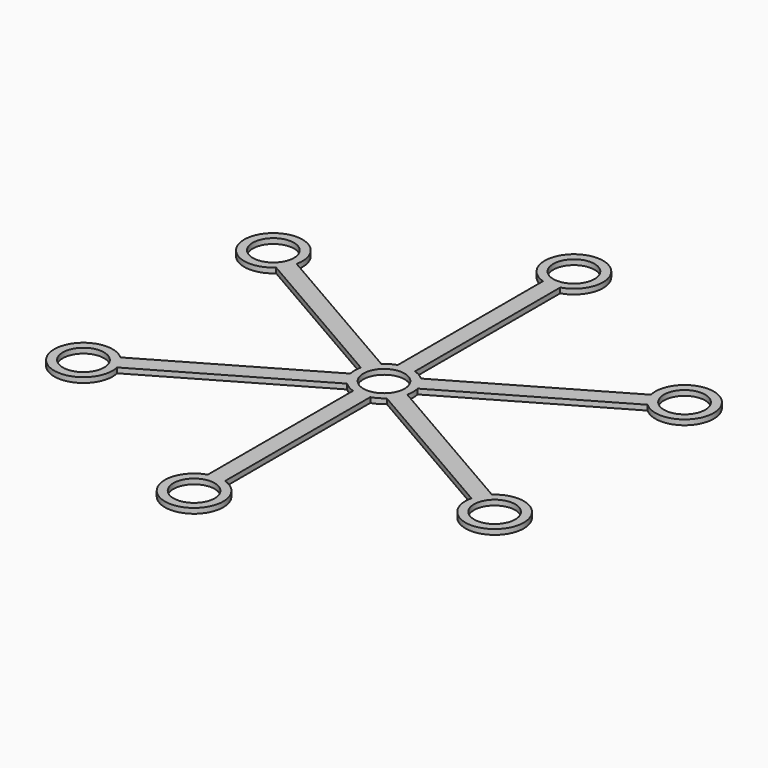
from build123d import *

# Parameters (mm, degrees)
F0_R     = 12
F1_DEPTH = 3


with BuildPart() as f1:
    # F0 (on Top) → F1 (new body)
    with BuildSketch(Plane.XY):
        with BuildLine():
            Line((5, 16.248077), (5, 122.001923))
            ThreePointArc((5, 122.001923), (0, 155.25), (-5, 122.001923))
            Line((-5, 122.001923), (-5, 16.248077))
            ThreePointArc((-5, 16.248077), (-8.5, 14.722432), (-11.571247, 12.454165))
            Line((-11.571247, 12.454165), (-103.156765, 65.331089))
            ThreePointArc((-103.156765, 65.331089), (-134.450444, 77.625), (-108.156765, 56.670835))
            Line((-108.156765, 56.670835), (-16.571247, 3.793911))
            ThreePointArc((-16.571247, 3.793911), (-17, 0), (-16.571247, -3.793911))
            Line((-16.571247, -3.793911), (-108.156765, -56.670835))
            ThreePointArc((-108.156765, -56.670835), (-134.450444, -77.625), (-103.156765, -65.331089))
            Line((-103.156765, -65.331089), (-11.571247, -12.454165))
            ThreePointArc((-11.571247, -12.454165), (-8.5, -14.722432), (-5, -16.248077))
            Line((-5, -16.248077), (-5, -122.001923))
            ThreePointArc((-5, -122.001923), (0, -155.25), (5, -122.001923))
            Line((5, -122.001923), (5, -16.248077))
            ThreePointArc((5, -16.248077), (8.5, -14.722432), (11.571247, -12.454165))
            Line((11.571247, -12.454165), (103.156765, -65.331089))
            ThreePointArc((103.156765, -65.331089), (134.450444, -77.625), (108.156765, -56.670835))
            Line((108.156765, -56.670835), (16.571247, -3.793911))
            ThreePointArc((16.571247, -3.793911), (17, 0), (16.571247, 3.793911))
            Line((16.571247, 3.793911), (108.156765, 56.670835))
            ThreePointArc((108.156765, 56.670835), (134.450444, 77.625), (103.156765, 65.331089))
            Line((103.156765, 65.331089), (11.571247, 12.454165))
            ThreePointArc((11.571247, 12.454165), (8.5, 14.722432), (5, 16.248077))
        make_face()
        with Locations((-119.728012, -69.125)):
            Circle(F0_R, mode=Mode.SUBTRACT)
        with Locations((0, -138.25)):
            Circle(F0_R, mode=Mode.SUBTRACT)
        with Locations((119.728012, -69.125)):
            Circle(F0_R, mode=Mode.SUBTRACT)
        with Locations((-119.728012, 69.125)):
            Circle(F0_R, mode=Mode.SUBTRACT)
        Circle(F0_R, mode=Mode.SUBTRACT)
        with Locations((119.728012, 69.125)):
            Circle(F0_R, mode=Mode.SUBTRACT)
        with Locations((0, 138.25)):
            Circle(F0_R, mode=Mode.SUBTRACT)
    extrude(amount=F1_DEPTH)


solid = f1.part
